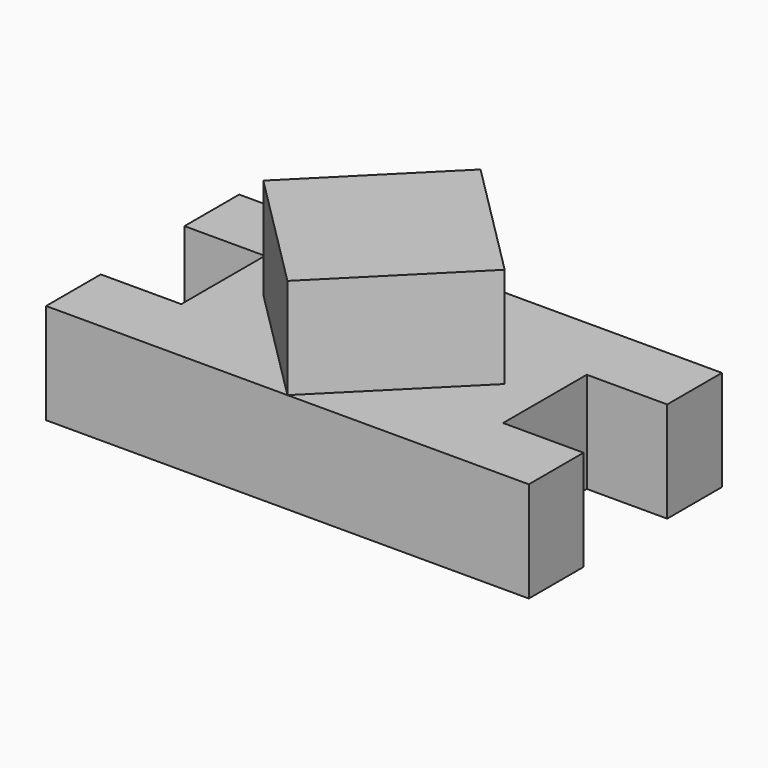
from build123d import *

# Parameters (mm, degrees)
F0_W     = 1200
F0_H     = 600
F1_DEPTH = 250
F3_DEPTH = 250
F4_W     = 400
F4_H     = 260
F5_DEPTH = 250.001
F6_W     = 400
F6_H     = 260
F7_DEPTH = 250.001


with BuildPart() as f1:
    # F0 (on Top) → F1 (new body)
    with BuildSketch(Plane.XY):
        Rectangle(F0_W, F0_H)
    extrude(amount=F1_DEPTH)

    # F2 (on face) → F3 (join)
    with BuildSketch(Plane.XY.offset(250)):
        Polygon((300, 0), (0, 300), (-300, 0), (0, -300), align=None)
    extrude(amount=F3_DEPTH)

    # F4 (on face) → F5 (cut, through all)
    with BuildSketch(Plane.XY.offset(250)):
        with Locations((-600, 0)):
            Rectangle(F4_W, F4_H)
    extrude(amount=-F5_DEPTH, mode=Mode.SUBTRACT)

    # F6 (on face) → F7 (cut, through all)
    with BuildSketch(Plane.XY.offset(250)):
        with Locations((600, 0)):
            Rectangle(F6_W, F6_H)
    extrude(amount=-F7_DEPTH, mode=Mode.SUBTRACT)


solid = f1.part
